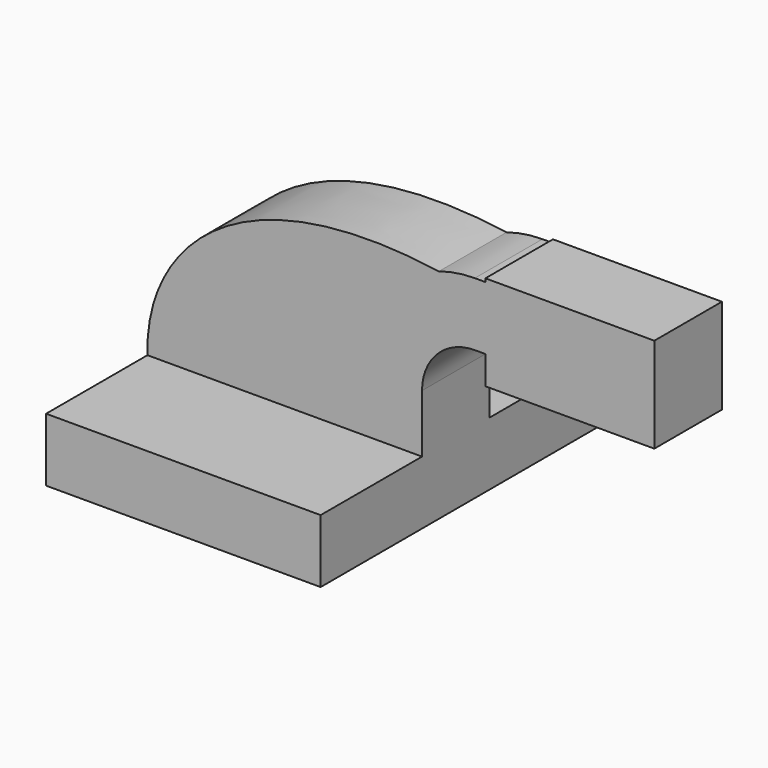
from build123d import *

# Parameters (mm, degrees)
F1_DEPTH = 63.5
F0_W     = 32.3452991128
F0_H     = 19.05
F0_H_2   = 8.5344
F2_DEPTH = 25.4


with BuildPart() as f1:
    # F0 (on Front) → F1 (new body, symmetric)
    with BuildSketch(Plane.XZ):
        Polygon((-41.275, 9.525), (-41.275, -9.525), (41.275, -9.525), (41.275, 9.525), (22.225, 9.525), align=None)
    extrude(amount=F1_DEPTH, both=True)

    # F0 (on Front) → F2 (join)
    with BuildSketch(Plane.XZ):
        Polygon((-41.275, 9.525), (-41.275, -9.525), (41.275, -9.525), (41.275, 9.525), (22.225, 9.525), align=None)
        with BuildLine():
            add(Edge.make_bspline(
                [(-41.275, 9.525), (-42.1845465899, 39.2021462321), (-14.9138346314, 68.9535290003), (46.3458457894, 60.212033385)],
                knots=[0, 0, 0, 0, 101.22543144, 101.22543144, 101.22543144, 101.22543144], degree=3))
            Line((-41.275, 9.525), (22.225, 9.525))
            Line((22.225, 9.525), (22.225, 27.0002))
            ThreePointArc((22.225, 27.0002), (28.891455179, 47.5236078456), (46.3458457894, 60.212033385))
        make_face()
        with BuildLine():
            Line((22.225, 9.525), (41.275, 9.525))
            Line((41.275, 9.525), (41.275, 27.0002))
            ThreePointArc((41.275, 27.0002), (45.9246798487, 38.2255201513), (57.15, 42.8752))
            Line((57.15, 42.8752), (60.325, 42.8752))
            Line((60.325, 42.8752), (60.325, 61.9252))
            Line((60.325, 61.9252), (57.15, 61.9252))
            ThreePointArc((57.15, 61.9252), (51.6804321913, 61.4942495301), (46.3458457894, 60.212033385))
            ThreePointArc((46.3458457894, 60.212033385), (28.891455179, 47.5236078456), (22.225, 27.0002))
            Line((22.225, 27.0002), (22.225, 9.525))
        make_face()
        with Locations((76.4976495564, 52.4002)):
            Rectangle(F0_W, F0_H)
        Polygon((60.325, 62.9158), (60.325, 61.9252), (92.6702991128, 61.9252), (92.6702991128, 42.8752), (92.6702991128, 34.3408), (111.125, 34.3408), (111.125, 62.9158), align=None)
        with Locations((76.4976495564, 38.608)):
            Rectangle(F0_W, F0_H_2)
    extrude(amount=F2_DEPTH)


solid = f1.part
